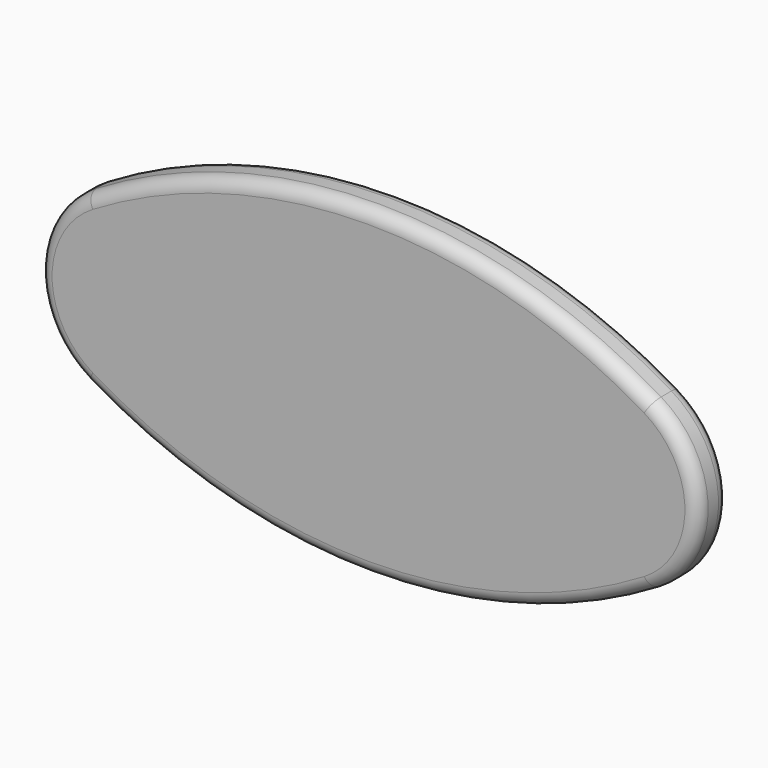
from build123d import *

# Parameters (mm, degrees)
F1_DEPTH = 30
F2_R     = 10


with BuildPart() as f1:
    # F0 (on Front) → F1 (new body)
    with BuildSketch(Plane.XZ):
        with BuildLine():
            ThreePointArc((218.587182, 64.311969), (0, 124.857114), (-218.587182, 64.311969))
            ThreePointArc((-218.587182, 64.311969), (-255, 0), (-218.587182, -64.311969))
            ThreePointArc((-218.587182, -64.311969), (0, -124.857114), (218.587182, -64.311969))
            ThreePointArc((218.587182, -64.311969), (255, 0), (218.587182, 64.311969))
        make_face()
    extrude(amount=F1_DEPTH)

    # F2
    f2_edges = [f1.edges().sort_by_distance(p)[0] for p in [
        (0, -30, -124.857114),
        (0, 0, -124.857114),
    ]]
    fillet(f2_edges, radius=F2_R)


solid = f1.part
